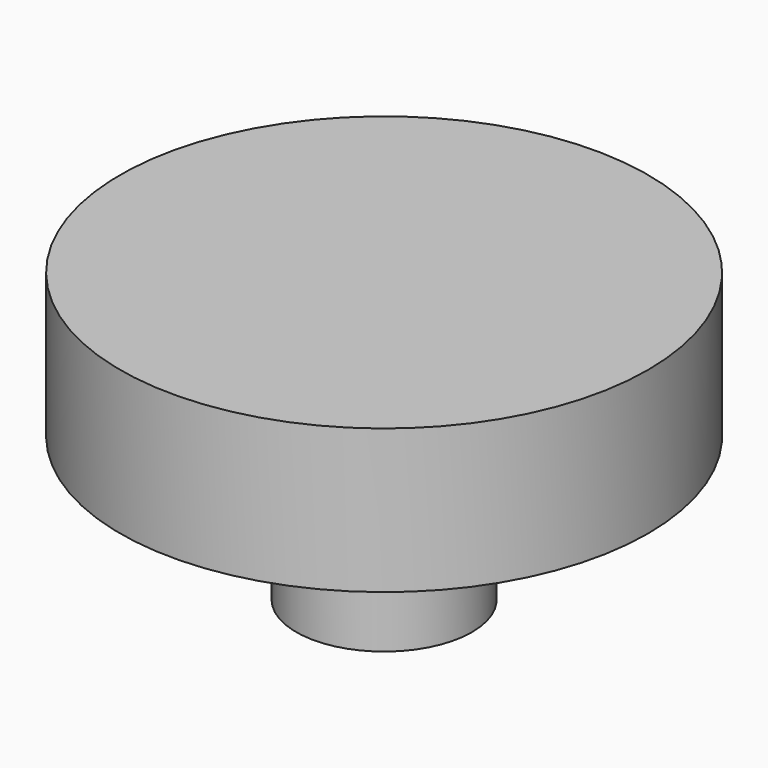
from build123d import *

# Parameters (mm, degrees)
F0_R     = 10.705893
F1_DEPTH = 5.842
F2_R     = 3.566194
F3_DEPTH = 5.842
F4_R     = 2.719536
F5_DEPTH = 5.5118
F6_R     = 2.717977
F7_DEPTH = 5.5118
F8_R     = 2.720478
F9_DEPTH = 5.5118


with BuildPart() as f1:
    # F0 (on Top) → F1 (new body)
    with BuildSketch(Plane.XY):
        Circle(F0_R)
    extrude(amount=F1_DEPTH)

    # F2 (on face) → F3 (join)
    with BuildSketch(Plane(origin=(0, 0, 0), x_dir=(1, 0, 0), z_dir=(0, 0, -1))):
        Circle(F2_R)
    extrude(amount=F3_DEPTH)

    # F4 (on face) → F5 (join)
    with BuildSketch(Plane(origin=(0, 0, -5.842), x_dir=(1, 0, 0), z_dir=(0, 0, -1))):
        Circle(F4_R)
    extrude(amount=-F5_DEPTH)

    # F6 (on face) → F7 (join)
    with BuildSketch(Plane(origin=(0, 0, -5.842), x_dir=(1, 0, 0), z_dir=(0, 0, -1))):
        Circle(F6_R)
    extrude(amount=-F7_DEPTH)

    # F8 (on face) → F9 (cut)
    with BuildSketch(Plane(origin=(0, 0, -5.842), x_dir=(1, 0, 0), z_dir=(0, 0, -1))):
        Circle(F8_R)
    extrude(amount=-F9_DEPTH, mode=Mode.SUBTRACT)


solid = f1.part
